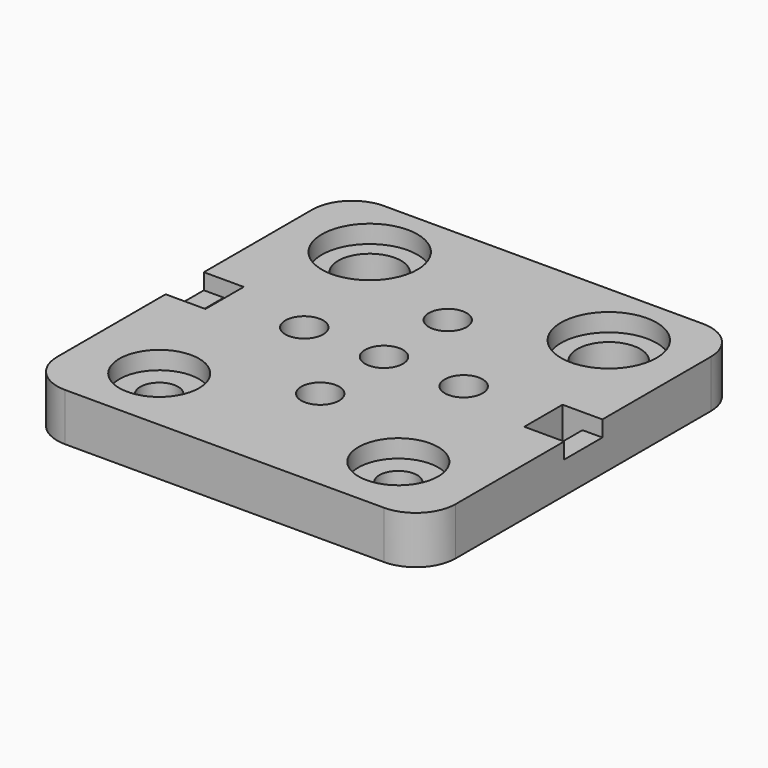
from build123d import *

# Parameters (mm, degrees)
F1_DEPTH  = 6
F2_W      = 2.5
F2_H      = 6
F3_DEPTH  = 2
F4_W      = 2.5
F4_H      = 6
F5_DEPTH  = 25
F6_R      = 2.375
F7_DEPTH  = 25
F8_R      = 2.375
F9_DEPTH  = 25
F10_R     = 6
F10_R_2   = 5
F11_DEPTH = 2.25
F12_R     = 3.95
F13_DEPTH = 25


with BuildPart() as f1:
    # F0 (on Top) → F1 (new body)
    with BuildSketch(Plane.XY):
        with BuildLine():
            ThreePointArc((-25, -20), (-23.535534, -23.535534), (-20, -25))
            Line((-20, -25), (20, -25))
            ThreePointArc((20, -25), (23.535534, -23.535534), (25, -20))
            Line((25, -20), (25, 20))
            ThreePointArc((25, 20), (23.535534, 23.535534), (20, 25))
            Line((20, 25), (-20, 25))
            ThreePointArc((-20, 25), (-23.535534, 23.535534), (-25, 20))
            Line((-25, 20), (-25, -20))
        make_face()
    extrude(amount=F1_DEPTH)

    # F2 (on face) → F3 (cut)
    with BuildSketch(Plane.XY.offset(6)):
        with Locations((-23.75, 0)):
            Rectangle(F2_W, F2_H)
        with Locations((23.75, 0)):
            Rectangle(F2_W, F2_H)
    extrude(amount=-F3_DEPTH, mode=Mode.SUBTRACT)

    # F4 (on face) → F5 (cut)
    with BuildSketch(Plane.XY.offset(6)):
        with Locations((-21.25, 0)):
            Rectangle(F4_W, F4_H)
        with Locations((21.25, 0)):
            Rectangle(F4_W, F4_H)
    extrude(amount=-F5_DEPTH, mode=Mode.SUBTRACT)

    # F6 (on face) → F7 (cut)
    with BuildSketch(Plane.XY.offset(6)):
        Circle(F6_R)
        with Locations((-10, 0)):
            Circle(F6_R)
        with Locations((0, -10)):
            Circle(F6_R)
        with Locations((10, 0)):
            Circle(F6_R)
        with Locations((0, 10)):
            Circle(F6_R)
    extrude(amount=-F7_DEPTH, mode=Mode.SUBTRACT)

    # F8 (on face) → F9 (cut)
    with BuildSketch(Plane.XY.offset(6)):
        with Locations((-15, -16.5)):
            Circle(F8_R)
        with Locations((15, -16.5)):
            Circle(F8_R)
        with Locations((-15, 16.5)):
            Circle(F8_R)
        with Locations((15, 16.5)):
            Circle(F8_R)
    extrude(amount=-F9_DEPTH, mode=Mode.SUBTRACT)

    # F10 (on face) → F11 (cut)
    with BuildSketch(Plane.XY.offset(6)):
        with Locations((-15, 16.5)):
            Circle(F10_R)
        with Locations((15, 16.5)):
            Circle(F10_R)
        with Locations((-15, -16.5)):
            Circle(F10_R_2)
        with Locations((15, -16.5)):
            Circle(F10_R_2)
    extrude(amount=-F11_DEPTH, mode=Mode.SUBTRACT)

    # F12 (on face) → F13 (cut)
    with BuildSketch(Plane.XY.offset(3.75)):
        with Locations((-15, 16.5)):
            Circle(F12_R)
        with Locations((15, 16.5)):
            Circle(F12_R)
    extrude(amount=-F13_DEPTH, mode=Mode.SUBTRACT)


solid = f1.part
